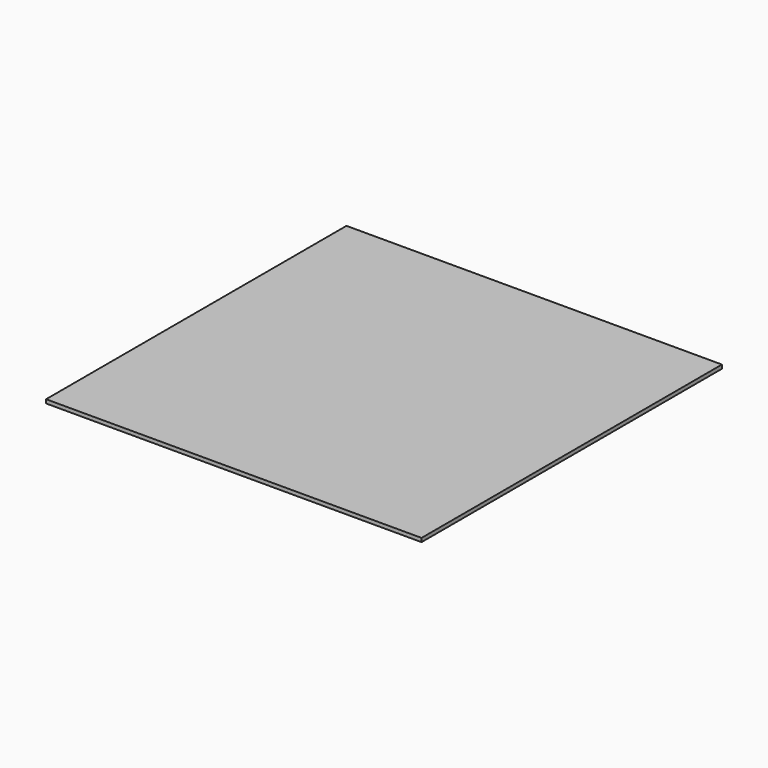
from build123d import *

# Parameters (mm, degrees)
BOX_W     = 1000
BOX_H     = 1000
BOX_DEPTH = 10


with BuildPart() as part:
    # Box → Box (new body)
    with BuildSketch(Plane.XY):
        with Locations((500, 500)):
            Rectangle(BOX_W, BOX_H)
    extrude(amount=BOX_DEPTH)


solid = part.part
